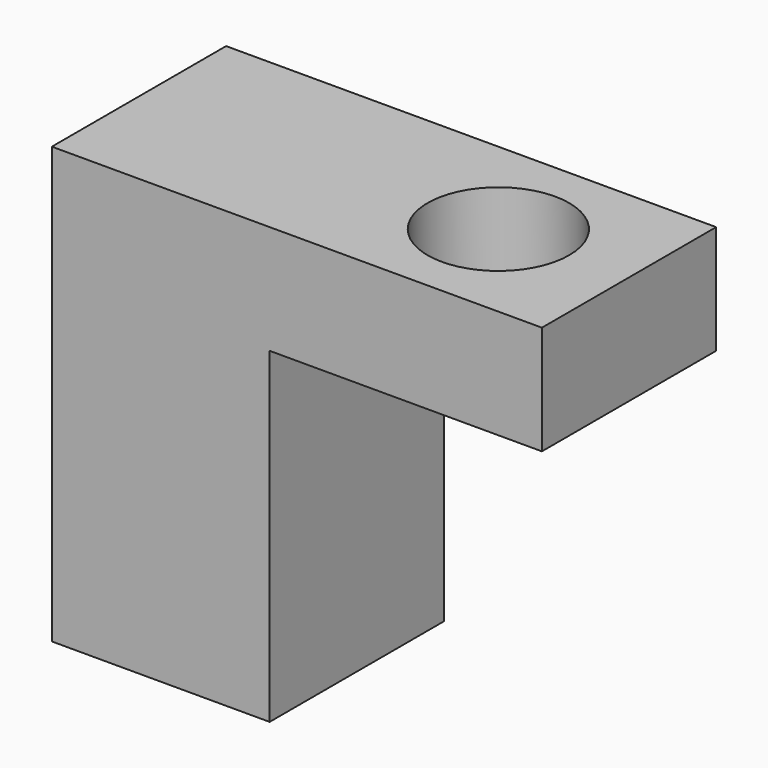
from build123d import *

# Parameters (mm, degrees)
F0_W     = 20
F0_H     = 20
F1_DEPTH = 40
F2_W     = 20
F2_H     = 10
F3_DEPTH = 25
F4_R     = 6.5
F5_DEPTH = 40.001


with BuildPart() as f1:
    # F0 (on Top) → F1 (new body)
    with BuildSketch(Plane.XY):
        with Locations((-97.988032, 0)):
            Rectangle(F0_W, F0_H)
    extrude(amount=F1_DEPTH)

    # F2 (on face) → F3 (join)
    with BuildSketch(Plane.YZ.offset(-87.988032)):
        with Locations((0, 35)):
            Rectangle(F2_W, F2_H)
    extrude(amount=F3_DEPTH)

    # F4 (on face) → F5 (cut, through all)
    with BuildSketch(Plane.XY.offset(40)):
        with Locations((-74.988032, 0)):
            Circle(F4_R)
    extrude(amount=-F5_DEPTH, mode=Mode.SUBTRACT)


solid = f1.part
